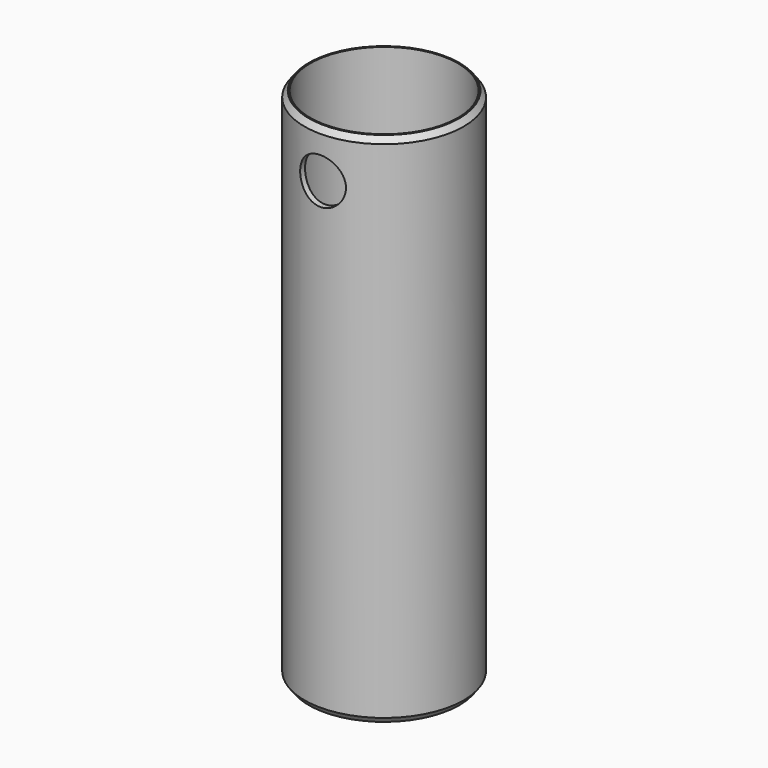
from build123d import *

# Parameters (mm, degrees)
F0_R       = 109.55
F0_R_2     = 101.55
F1_DEPTH   = 710.8
F2_SIZE2   = 7.9622689297
F2_SIZE    = 6
F2_2_SIZE2 = 7.9622689297
F2_2_SIZE  = 6
F3_R       = 31.5
F4_DEPTH   = 109.551
F5_DEPTH   = 109.5510001


with BuildPart() as f1:
    # F0 (on Top) → F1 (new body)
    with BuildSketch(Plane.XY):
        Circle(F0_R)
        Circle(F0_R_2, mode=Mode.SUBTRACT)
    extrude(amount=F1_DEPTH)

    # F2
    f2_edges = [f1.edges().sort_by_distance(p)[0] for p in [
        (-109.55, 0, 710.8),
    ]]
    f2_side = f1.faces().sort_by_distance((-106.451458, 0, 710.8))[0]
    chamfer(f2_edges, length=F2_SIZE, length2=F2_SIZE2, reference=f2_side)

    # F2#2
    f2_2_edges = [f1.edges().sort_by_distance(p)[0] for p in [
        (-109.55, 0, 0),
    ]]
    f2_2_side = f1.faces().sort_by_distance((-106.451458, 0, 0))[0]
    chamfer(f2_2_edges, length=F2_2_SIZE, length2=F2_2_SIZE2, reference=f2_2_side)

    # F3 (on Front) → F4 (cut, through all)
    with BuildSketch(Plane.XZ):
        with Locations((0, 645.8)):
            Circle(F3_R)
    extrude(amount=F4_DEPTH, mode=Mode.SUBTRACT)

    # F3 (on Front) → F5 (cut, through all)
    with BuildSketch(Plane.XZ):
        with Locations((0, 65)):
            Circle(F3_R)
    extrude(amount=-F5_DEPTH, mode=Mode.SUBTRACT)


solid = f1.part
